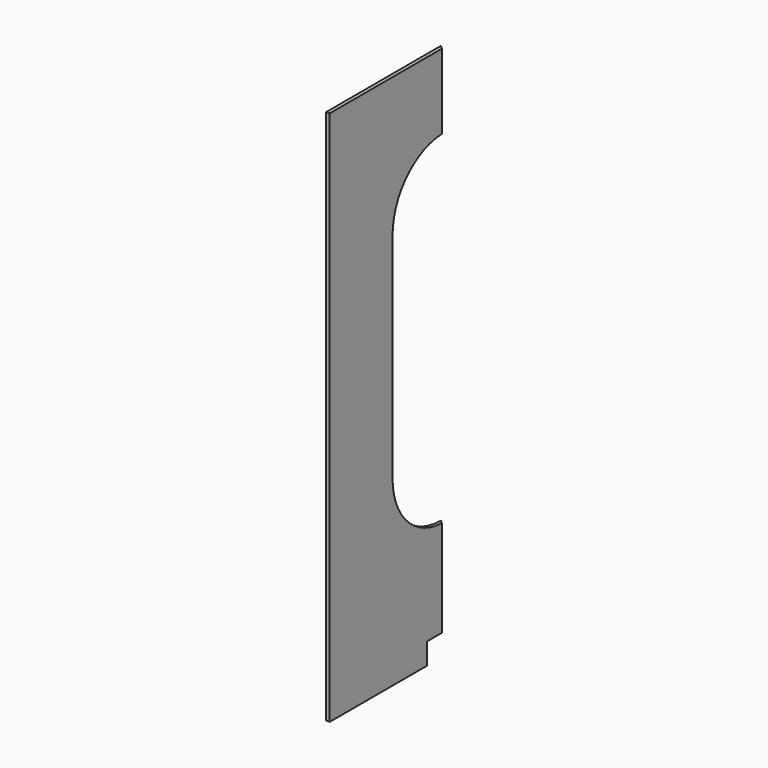
from build123d import *

# Parameters (mm, degrees)
F1_DEPTH = 6.35
F2_SIZE  = 4.7625


with BuildPart() as f1:
    # F0 (on Right) → F1 (new body)
    with BuildSketch(Plane.YZ):
        with BuildLine():
            Line((127, 476.25), (-127, 476.25))
            Line((-127, 476.25), (-127, -476.25))
            Line((-127, -476.25), (88.9, -476.25))
            Line((88.9, -476.25), (88.9, -438.15))
            Line((88.9, -438.15), (127, -438.15))
            Line((127, -438.15), (127, -266.7))
            ThreePointArc((127, -266.7), (46.177695, -233.222305), (12.7, -152.4))
            Line((12.7, -152.4), (12.7, 228.6))
            ThreePointArc((12.7, 228.6), (46.177695, 309.422305), (127, 342.9))
            Line((127, 342.9), (127, 476.25))
        make_face()
    extrude(amount=F1_DEPTH)

    # F2
    f2_edges = [f1.edges().sort_by_distance(p)[0] for p in [
        (6.35, 127, 409.575),
        (6.35, 127, -352.425),
    ]]
    chamfer(f2_edges, length=F2_SIZE)


solid = f1.part
